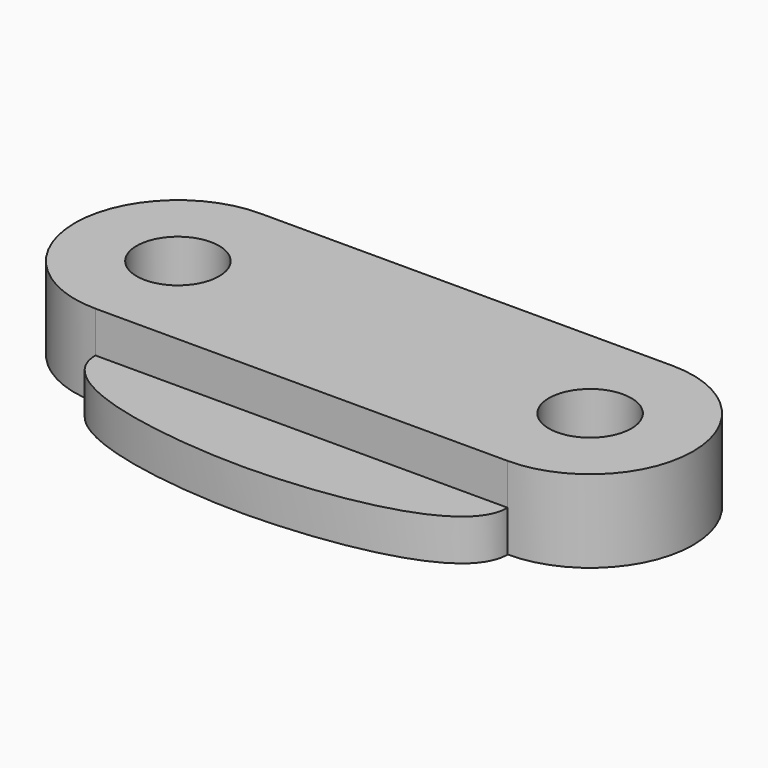
from build123d import *

# Parameters (mm, degrees)
F1_DEPTH = 2
F0_R     = 2
F2_DEPTH = 4


with BuildPart() as f1:
    # F0 (on Top) → F1 (new body)
    with BuildSketch(Plane.XY):
        with BuildLine():
            Line((10, 0), (-10, 0))
            add(Edge.make_bspline(
                [(-10, 0), (-10, -3), (-3, -3.639702), (0, -3.639702)],
                knots=[0, 0, 0, 0, 10.641778, 10.641778, 10.641778, 10.641778], degree=3))
            add(Edge.make_bspline(
                [(10, 0), (10, -3), (3, -3.639702), (0, -3.639702)],
                knots=[0, 0, 0, 0, 10.641778, 10.641778, 10.641778, 10.641778], degree=3))
        make_face()
    extrude(amount=F1_DEPTH)

    # F0 (on Top) → F2 (join)
    with BuildSketch(Plane.XY):
        with BuildLine():
            Line((10, 10), (0, 10))
            Line((0, 10), (-10, 10))
            ThreePointArc((-10, 10), (-15, 5), (-10, 0))
            Line((-10, 0), (10, 0))
            ThreePointArc((10, 0), (15, 5), (10, 10))
        make_face()
        with Locations((-10, 5)):
            Circle(F0_R, mode=Mode.SUBTRACT)
        with Locations((10, 5)):
            Circle(F0_R, mode=Mode.SUBTRACT)
    extrude(amount=F2_DEPTH)


solid = f1.part
